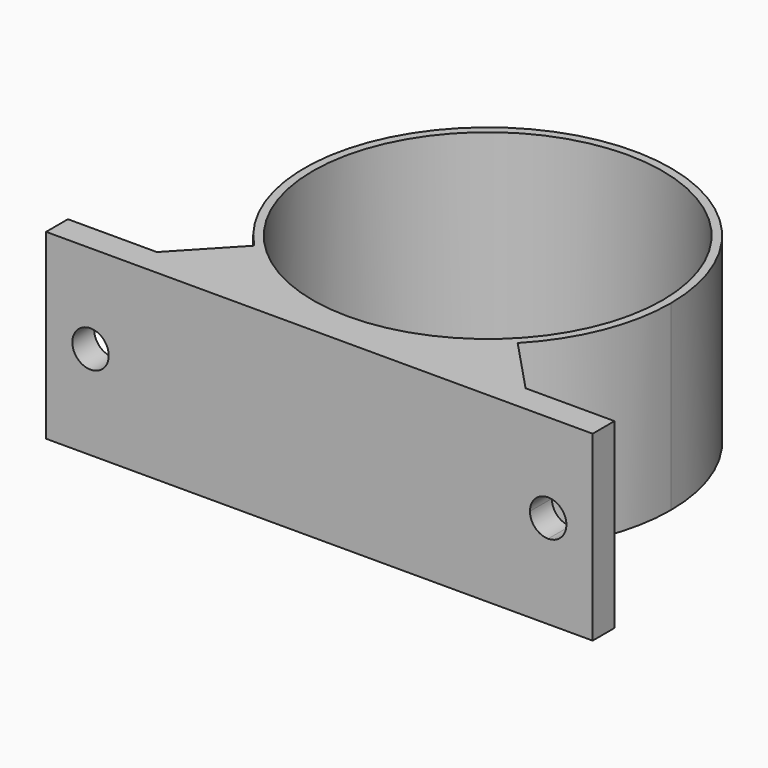
from build123d import *

# Parameters (mm, degrees)
F0_R     = 19.2
F1_DEPTH = 20
F2_R     = 2
F3_DEPTH = 25


with BuildPart() as f1:
    # F0 (on Top) → F1 (new body)
    with BuildSketch(Plane.XY):
        with BuildLine():
            ThreePointArc((14.459278, -13.962065), (18.636543, -7.529227), (20.1, 0))
            ThreePointArc((20.1, 0), (-7.529227, 18.636543), (-14.459278, -13.962065))
            ThreePointArc((-14.459278, -13.962065), (-7.854059, -18.501993), (0, -20.1))
            ThreePointArc((0, -20.1), (7.854059, -18.501993), (14.459278, -13.962065))
        make_face()
        Circle(F0_R, mode=Mode.SUBTRACT)
        Polygon((0, -23.1), (0, -20.1), (-20.239076, -20.1), (-30, -20.1), (-30, -23.1), align=None)
        with BuildLine():
            Line((20.239076, -20.1), (14.459278, -13.962065))
            ThreePointArc((14.459278, -13.962065), (7.854059, -18.501993), (0, -20.1))
            Line((0, -20.1), (20.239076, -20.1))
        make_face()
        with BuildLine():
            ThreePointArc((0, -20.1), (-7.854059, -18.501993), (-14.459278, -13.962065))
            Line((-14.459278, -13.962065), (-20.239076, -20.1))
            Line((-20.239076, -20.1), (0, -20.1))
        make_face()
        Polygon((20.239076, -20.1), (0, -20.1), (0, -23.1), (30, -23.1), (30, -20.1), align=None)
    extrude(amount=F1_DEPTH)

    # F2 (on face) → F3 (cut)
    with BuildSketch(Plane(origin=(0, -20.1, 0), x_dir=(-1, 0, 0), z_dir=(0, 1, 0))):
        with BuildLine():
            Line((-25.119538, 10.263338), (-25.119538, 8.263338))
            ThreePointArc((-25.119538, 8.263338), (-23.705324, 8.849124), (-23.119538, 10.263338))
            ThreePointArc((-23.119538, 10.263338), (-25.119538, 12.263338), (-27.119538, 10.263338))
            Line((-27.119538, 10.263338), (-25.119538, 10.263338))
        make_face()
        with BuildLine():
            ThreePointArc((-27.119538, 10.263338), (-26.533751, 8.849124), (-25.119538, 8.263338))
            Line((-25.119538, 8.263338), (-25.119538, 10.263338))
            Line((-25.119538, 10.263338), (-27.119538, 10.263338))
        make_face()
        with Locations((25.119538, 10.263338)):
            Circle(F2_R)
    extrude(amount=-F3_DEPTH, mode=Mode.SUBTRACT)


solid = f1.part
